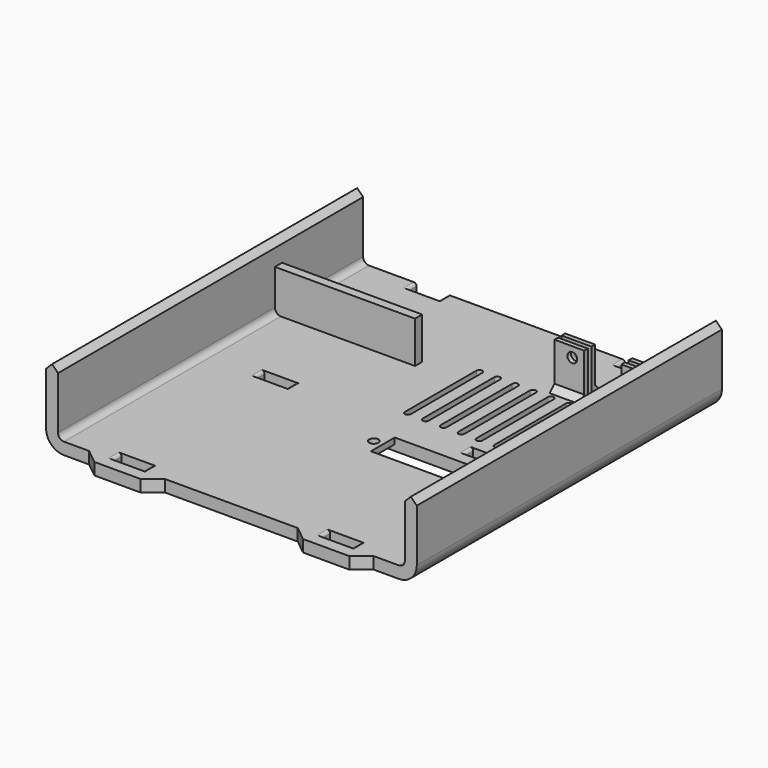
from build123d import *

# Parameters (mm, degrees)
SKETCH_W          = 124.4
SKETCH_H          = 132
PAD_DEPTH         = 4
SKETCH001_W       = 4
SKETCH001_H       = 132
PAD001_DEPTH      = 19.6
PAD002_DEPTH      = 132
SKETCH003_W       = 10.5
SKETCH003_H       = 4.25
POCKET_DEPTH      = 4.001
POCKET_DEPTH_BACK = 21.601
FILLET_R          = 6
FILLET001_R       = 2
FILLET002_R       = 1
SKETCH004_W       = 47
SKETCH004_H       = 3
PAD003_DEPTH      = 14
SKETCH005_R       = 1.55
SKETCH005_W       = 40
SKETCH005_H       = 10
POCKET001_DEPTH   = 4.001
SKETCH006_W       = 52
SKETCH006_H       = 10
POCKET002_DEPTH   = 2
SKETCH007_W       = 12.5
SKETCH007_H       = 11
POCKET003_DEPTH   = 4.001
SKETCH008_W       = 7
SKETCH008_H       = 4.5
SKETCH008_W_2     = 10
PAD004_DEPTH      = 15
SKETCH009_W       = 7
SKETCH009_H       = 1.5
SKETCH009_W_2     = 10
POCKET004_DEPTH   = 21.601
SKETCH010_R       = 1.65
POCKET005_DEPTH   = 132.001
POCKET006_DEPTH   = 4.001
CHAMFER_SIZE      = 3
CHAMFER001_SIZE   = 2


with BuildPart() as part:
    # Sketch → Pad (new body)
    with BuildSketch(Plane.XY):
        with Locations((0, 66)):
            Rectangle(SKETCH_W, SKETCH_H)
    extrude(amount=-PAD_DEPTH)

    # Sketch001 → Pad001 (join)
    with BuildSketch(Plane.XY):
        with Locations((-60.2, 66)):
            Rectangle(SKETCH001_W, SKETCH001_H)
        with Locations((60.2, 66)):
            Rectangle(SKETCH001_W, SKETCH001_H)
    extrude(amount=PAD001_DEPTH)

    # Sketch002 → Pad002 (join)
    with BuildSketch(Plane.XZ):
        Polygon((-58.2, 19.6), (-62.2, 19.6), (-60.2, 21.6), align=None)
        Polygon((58.2, 19.6), (62.2, 19.6), (60.2, 21.6), align=None)
    extrude(amount=-PAD002_DEPTH)

    # Sketch003 → Pocket (cut, two sides)
    with BuildSketch(Plane.XY) as pocket_sk:
        with Locations((-35, 6.125)):
            Rectangle(SKETCH003_W, SKETCH003_H)
        with Locations((-35, 66.125)):
            Rectangle(SKETCH003_W, SKETCH003_H)
        with Locations((-35, 129.875)):
            Rectangle(SKETCH003_W, SKETCH003_H)
        with Locations((35, 6.125)):
            Rectangle(SKETCH003_W, SKETCH003_H)
        with Locations((35, 66.125)):
            Rectangle(SKETCH003_W, SKETCH003_H)
        with Locations((35, 129.875)):
            Rectangle(SKETCH003_W, SKETCH003_H)
        Polygon((-42.75, 0), (-27.25, 0), (-22.25, 4), (22.25, 4), (27.25, 0), (42.75, 0), (47.75, 4), (90, 4), (90, -46), (-90, -46), (-90, 4), (-47.75, 4), align=None)
    extrude(amount=-POCKET_DEPTH, mode=Mode.SUBTRACT)
    extrude(pocket_sk.sketch, amount=POCKET_DEPTH_BACK, mode=Mode.SUBTRACT)

    # Fillet
    fillet_edges = [part.edges().sort_by_distance(p)[0] for p in [
        (-62.2, 68, -4),
        (62.2, 68, -4),
    ]]
    fillet(fillet_edges, radius=FILLET_R)

    # Fillet001
    fillet001_edges = [part.edges().sort_by_distance(p)[0] for p in [
        (-58.2, 68, 0),
        (58.2, 68, 0),
    ]]
    fillet(fillet001_edges, radius=FILLET001_R)

    # Fillet002
    fillet002_edges = [part.edges().sort_by_distance(p)[0] for p in [
        (-40.25, 129.875, 0),
        (-29.75, 129.875, 0),
        (29.75, 129.875, 0),
        (40.25, 129.875, 0),
        (29.75, 66.125, 0),
        (40.25, 66.125, 0),
        (29.75, 6.125, 0),
        (40.25, 6.125, 0),
        (-40.25, 6.125, 0),
        (-29.75, 6.125, 0),
        (-40.25, 66.125, 0),
        (-29.75, 66.125, 0),
    ]]
    fillet(fillet002_edges, radius=FILLET002_R)

    # Sketch004 → Pad003 (new body)
    with BuildSketch(Plane.XY):
        with Locations((-34.7, 96.5)):
            Rectangle(SKETCH004_W, SKETCH004_H)
    extrude(amount=PAD003_DEPTH)

    # Sketch005 → Pocket001 (cut, through all)
    with BuildSketch(Plane.XY):
        with Locations((7, 55)):
            Circle(SKETCH005_R)
        with Locations((53, 55)):
            Circle(SKETCH005_R)
        with Locations((30, 55)):
            Rectangle(SKETCH005_W, SKETCH005_H)
    extrude(amount=-POCKET001_DEPTH, mode=Mode.SUBTRACT)

    # Sketch006 (on DatumPlane) → Pocket002 (cut)
    with BuildSketch(Plane.XY.offset(-4)):
        with Locations((30, 55)):
            Rectangle(SKETCH006_W, SKETCH006_H)
    extrude(amount=POCKET002_DEPTH, mode=Mode.SUBTRACT)

    # Sketch007 → Pocket003 (cut, through all)
    with BuildSketch(Plane.XY):
        with Locations((42.25, 115.5)):
            Rectangle(SKETCH007_W, SKETCH007_H)
    extrude(amount=-POCKET003_DEPTH, mode=Mode.SUBTRACT)

    # Sketch008 → Pad004 (join)
    with BuildSketch(Plane.XY):
        with Locations((52, 109.25)):
            Rectangle(SKETCH008_W, SKETCH008_H)
        with Locations((31, 109.25)):
            Rectangle(SKETCH008_W_2, SKETCH008_H)
    extrude(amount=PAD004_DEPTH)

    # Sketch009 → Pocket004 (cut, through all)
    with BuildSketch(Plane.XY):
        with Locations((52, 109.25)):
            Rectangle(SKETCH009_W, SKETCH009_H)
        with Locations((31, 109.25)):
            Rectangle(SKETCH009_W_2, SKETCH009_H)
    extrude(amount=POCKET004_DEPTH, mode=Mode.SUBTRACT)

    # Sketch010 → Pocket005 (cut, through all)
    with BuildSketch(Plane.XZ):
        with Locations((32, 11.65)):
            Circle(SKETCH010_R)
        with Locations((52, 11.65)):
            Circle(SKETCH010_R)
    extrude(amount=-POCKET005_DEPTH, mode=Mode.SUBTRACT)

    # Sketch011 → Pocket006 (cut, through all)
    with BuildSketch(Plane.XY):
        with BuildLine():
            ThreePointArc((5, 103), (4, 104), (3, 103))
            Line((3, 103), (3, 73))
            ThreePointArc((3, 73), (4, 72), (5, 73))
            Line((5, 103), (5, 73))
        make_face()
        with BuildLine():
            ThreePointArc((11, 103), (10, 104), (9, 103))
            Line((9, 103), (9, 73))
            ThreePointArc((9, 73), (10, 72), (11, 73))
            Line((11, 103), (11, 73))
        make_face()
        with BuildLine():
            ThreePointArc((17, 103), (16, 104), (15, 103))
            Line((15, 103), (15, 73))
            ThreePointArc((15, 73), (16, 72), (17, 73))
            Line((17, 103), (17, 73))
        make_face()
        with BuildLine():
            ThreePointArc((23, 103), (22, 104), (21, 103))
            Line((21, 103), (21, 73))
            ThreePointArc((21, 73), (22, 72), (23, 73))
            Line((23, 103), (23, 73))
        make_face()
        with BuildLine():
            ThreePointArc((29, 103), (28, 104), (27, 103))
            Line((27, 103), (27, 73))
            ThreePointArc((27, 73), (28, 72), (29, 73))
            Line((29, 103), (29, 73))
        make_face()
        with BuildLine():
            ThreePointArc((35, 103), (34, 104), (33, 103))
            Line((33, 103), (33, 73))
            ThreePointArc((33, 73), (34, 72), (35, 73))
            Line((35, 103), (35, 73))
        make_face()
        with BuildLine():
            ThreePointArc((41, 103), (40, 104), (39, 103))
            Line((39, 103), (39, 73))
            ThreePointArc((39, 73), (40, 72), (41, 73))
            Line((41, 103), (41, 73))
        make_face()
        with BuildLine():
            ThreePointArc((47, 103), (46, 104), (45, 103))
            Line((45, 103), (45, 73))
            ThreePointArc((45, 73), (46, 72), (47, 73))
            Line((47, 103), (47, 73))
        make_face()
        with BuildLine():
            ThreePointArc((53, 103), (52, 104), (51, 103))
            Line((51, 103), (51, 73))
            ThreePointArc((51, 73), (52, 72), (53, 73))
            Line((53, 103), (53, 73))
        make_face()
    extrude(amount=-POCKET006_DEPTH, mode=Mode.SUBTRACT)

    # Chamfer
    chamfer_edges = [part.edges().sort_by_distance(p)[0] for p in [
        (31, 111.5, 0),
        (52, 111.5, 0),
    ]]
    chamfer(chamfer_edges, length=CHAMFER_SIZE)

    # Chamfer001
    chamfer001_edges = [part.edges().sort_by_distance(p)[0] for p in [
        (31, 107, 0),
        (52, 107, 0),
    ]]
    chamfer(chamfer001_edges, length=CHAMFER001_SIZE)


solid = part.part
